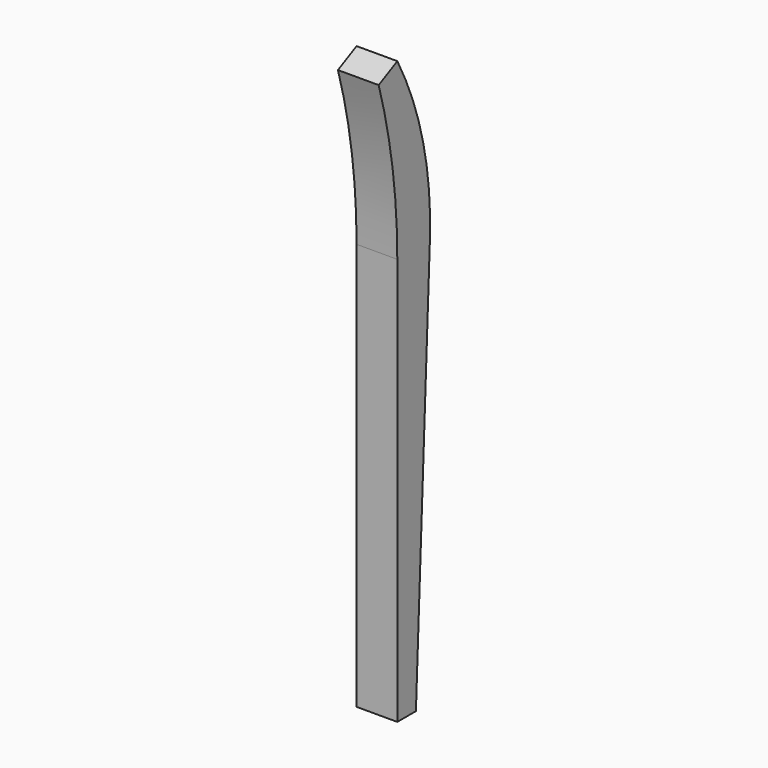
from build123d import *

# Parameters (mm, degrees)
F1_DEPTH = 44.45


with BuildPart() as f1:
    # F0 (on Right) → F1 (new body)
    with BuildSketch(Plane.YZ):
        with BuildLine():
            Line((0, 0), (25.4, 0))
            Line((25.4, 0), (44.45, 444.5))
            ThreePointArc((44.45, 444.5), (35.262511, 542.792086), (0, 635))
            Line((0, 635), (-25.4, 622.3))
            ThreePointArc((-25.4, 622.3), (-6.382072, 534.302561), (0, 444.5))
            Line((0, 444.5), (0, 0))
        make_face()
    extrude(amount=F1_DEPTH)


solid = f1.part
